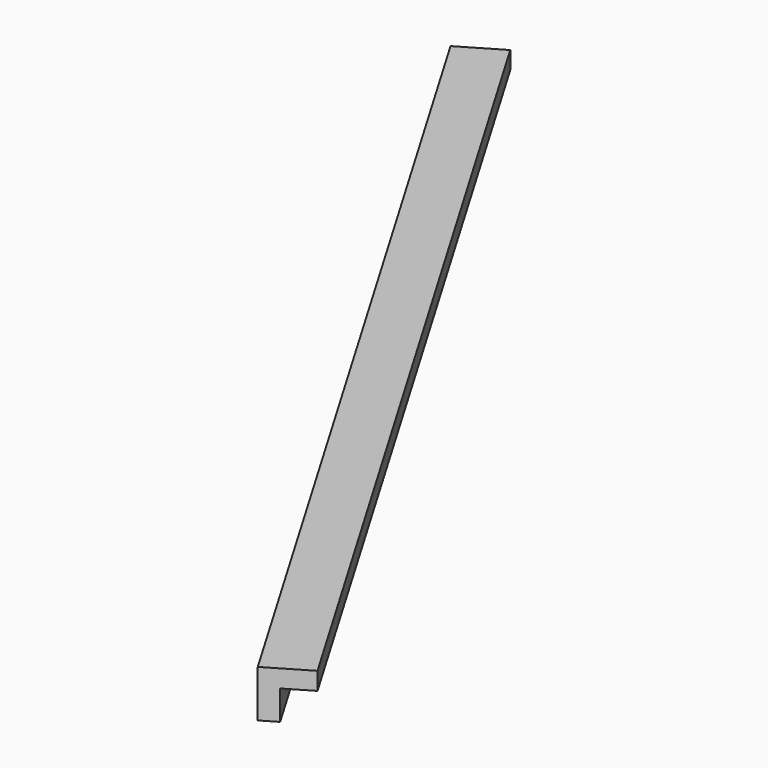
from build123d import *

# Parameters (mm, degrees)
BOX163_W               = 0.8
BOX163_H               = 18
BOX163_DEPTH           = 0.8
BOX164_W               = 0.8
BOX164_H               = 18
BOX164_DEPTH           = 0.8
CUT085_PLACEMENT_ANGLE = 210.5


with BuildPart() as cubo163:
    # Box163 → Box163 (new body)
    with BuildSketch(Plane.XY):
        with Locations((0.4, 9)):
            Rectangle(BOX163_W, BOX163_H)
    extrude(amount=BOX163_DEPTH)


with BuildPart() as obj1:
    # Box164 → Box164 (new body)
    with BuildSketch(Plane(origin=(0.3, 0, 0.3), x_dir=(1, 0, 0), z_dir=(0, 0, 1))):
        with Locations((0.4, 9)):
            Rectangle(BOX164_W, BOX164_H)
    extrude(amount=BOX164_DEPTH)

    # Cut085: cut Cubo163
    add(cubo163.part, mode=Mode.SUBTRACT)


with BuildPart() as obj1_1:
    # Cut085 placement: moved
    add(obj1.part.moved(Location((-209, 103.4, -1.45))).rotate(Axis((-209, 103.4, -1.45), (0, 0, 1)), CUT085_PLACEMENT_ANGLE))


solid = obj1_1.part
